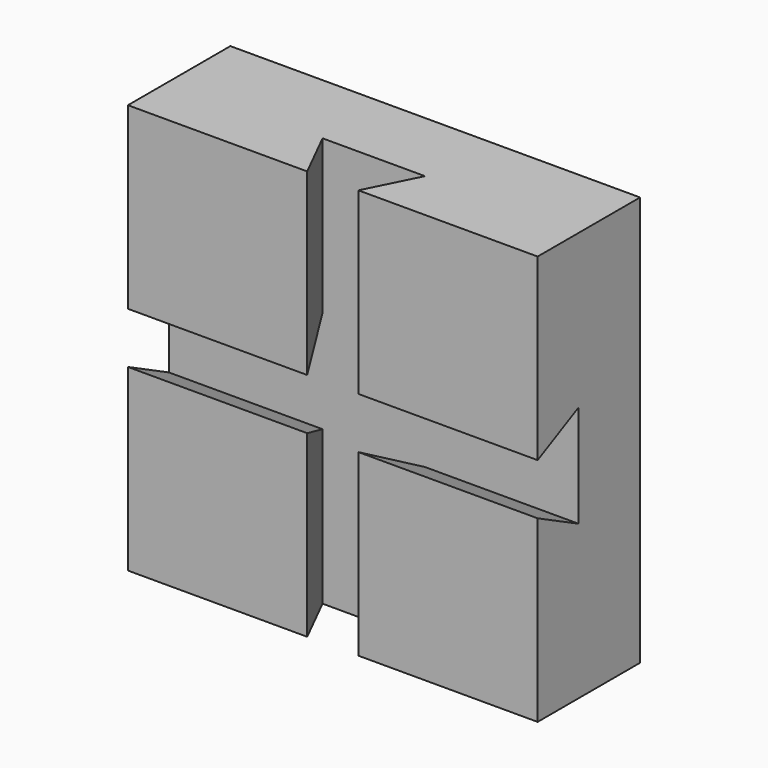
from build123d import *

# Parameters (mm, degrees)
F0_W     = 80
F0_H     = 80
F1_DEPTH = 25
F3_DEPTH = 85
F5_DEPTH = 85


with BuildPart() as f1:
    # F0 (on Front) → F1 (new body)
    with BuildSketch(Plane.XZ):
        with Locations((40, 40)):
            Rectangle(F0_W, F0_H)
    extrude(amount=F1_DEPTH)

    # F2 (on face) → F3 (cut)
    with BuildSketch(Plane(origin=(0, 0, 0), x_dir=(0, -1, 0), z_dir=(-1, 0, 0))):
        Polygon((25, 45), (15, 50), (15, 30), (25, 35), (25, 40), align=None)
    extrude(amount=-F3_DEPTH, mode=Mode.SUBTRACT)

    # F4 (on face) → F5 (cut)
    with BuildSketch(Plane.XY.offset(80)):
        Polygon((50, -15), (30, -15), (35, -25), (40, -25), (45, -25), align=None)
    extrude(amount=-F5_DEPTH, mode=Mode.SUBTRACT)


solid = f1.part
